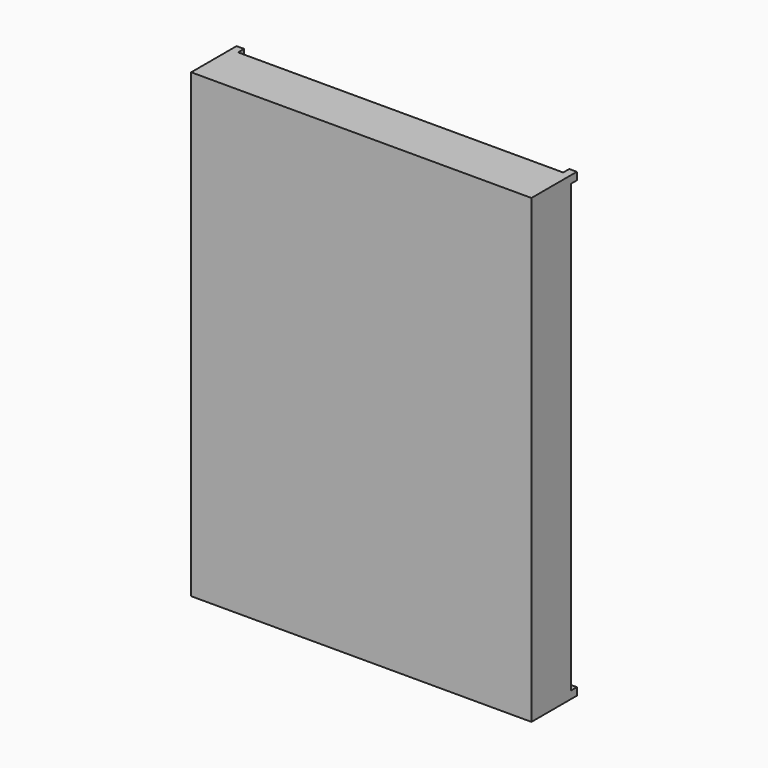
from build123d import *

# Parameters (mm, degrees)
SKETCH_W     = 90
SKETCH_H     = 122
PAD_DEPTH    = 15
POCKET_DEPTH = 2
SKETCH002_R  = 0.4
PAD001_DEPTH = 10.5


with BuildPart() as part:
    # Sketch → Pad (new body)
    with BuildSketch(Plane.XZ):
        with Locations((45, 61)):
            Rectangle(SKETCH_W, SKETCH_H)
    extrude(amount=PAD_DEPTH)

    # Sketch001 (on Face5 of Pad) → Pocket (cut)
    with BuildSketch(Plane(origin=(0, 0, 0), x_dir=(1, 0, 0), z_dir=(0, 1, 0))):
        Polygon((88, -122), (88, -120), (90, -120), (90, -2), (88, -2), (88, 0), (2, 0), (2, -2), (0, -2), (0, -120), (2, -120), (2, -122), align=None)
    extrude(amount=-POCKET_DEPTH, mode=Mode.SUBTRACT)

    # Sketch002 (on Face4 of Pocket) → Pad001 (join)
    with BuildSketch(Plane(origin=(0, -2, 0), x_dir=(1, 0, 0), z_dir=(0, 1, 0))):
        with Locations((34.84, -7.5)):
            Circle(SKETCH002_R)
        with Locations((39.92, -7.5)):
            Circle(SKETCH002_R)
        with Locations((45, -7.5)):
            Circle(SKETCH002_R)
        with Locations((50.08, -7.5)):
            Circle(SKETCH002_R)
        with Locations((55.16, -7.5)):
            Circle(SKETCH002_R)
        with Locations((34.84, -114.5)):
            Circle(SKETCH002_R)
        with Locations((39.92, -114.5)):
            Circle(SKETCH002_R)
        with Locations((45, -114.5)):
            Circle(SKETCH002_R)
        with Locations((50.08, -114.5)):
            Circle(SKETCH002_R)
        with Locations((55.16, -114.5)):
            Circle(SKETCH002_R)
    extrude(amount=PAD001_DEPTH)


solid = part.part
